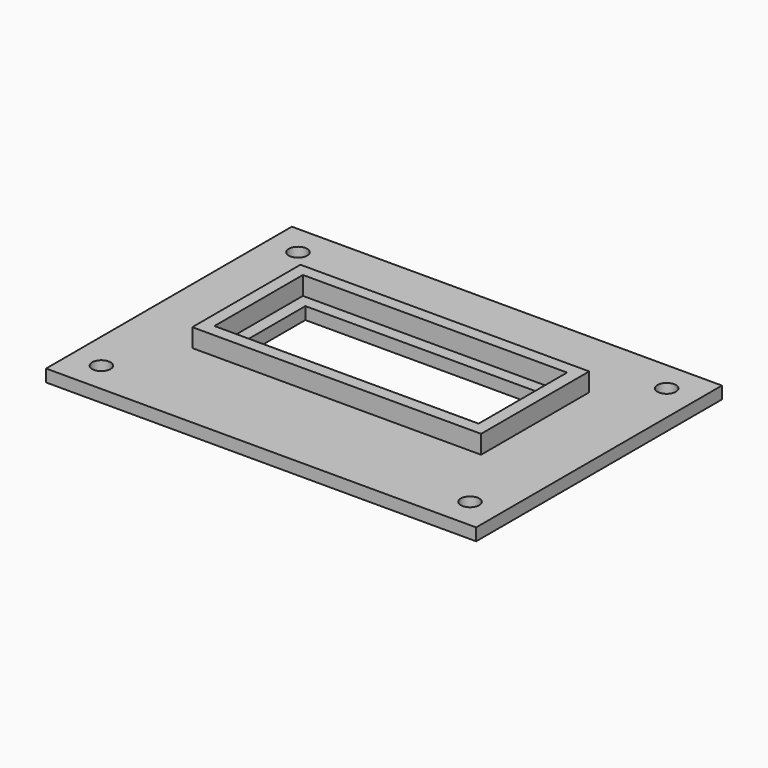
from build123d import *

# Parameters (mm, degrees)
SKETCH_W        = 70
SKETCH_H        = 50
PAD_DEPTH       = 2
SKETCH001_R     = 1.5
POCKET_DEPTH    = 2
SKETCH002_W     = 39
SKETCH002_H     = 14
POCKET001_DEPTH = 2
SKETCH003_W     = 47
SKETCH003_H     = 22
SKETCH003_W_2   = 43
SKETCH003_H_2   = 18
PAD001_DEPTH    = 3


with BuildPart() as part:
    # Sketch → Pad (new body)
    with BuildSketch(Plane.XY):
        with Locations((35, 25)):
            Rectangle(SKETCH_W, SKETCH_H)
    extrude(amount=PAD_DEPTH)

    # Sketch001 → Pocket (cut)
    with BuildSketch(Plane.XY.offset(2)):
        with Locations((5, 45)):
            Circle(SKETCH001_R)
        with Locations((65, 45)):
            Circle(SKETCH001_R)
        with Locations((5, 5)):
            Circle(SKETCH001_R)
        with Locations((65, 5)):
            Circle(SKETCH001_R)
    extrude(amount=-POCKET_DEPTH, mode=Mode.SUBTRACT)

    # Sketch002 → Pocket001 (cut)
    with BuildSketch(Plane.XY.offset(2)):
        with Locations((34.5, 27)):
            Rectangle(SKETCH002_W, SKETCH002_H)
    extrude(amount=-POCKET001_DEPTH, mode=Mode.SUBTRACT)

    # Sketch003 → Pad001 (new body)
    with BuildSketch(Plane.XY.offset(2)):
        with Locations((34.5, 27)):
            Rectangle(SKETCH003_W, SKETCH003_H)
        with Locations((34.5, 27)):
            Rectangle(SKETCH003_W_2, SKETCH003_H_2, mode=Mode.SUBTRACT)
    extrude(amount=PAD001_DEPTH)


solid = part.part
